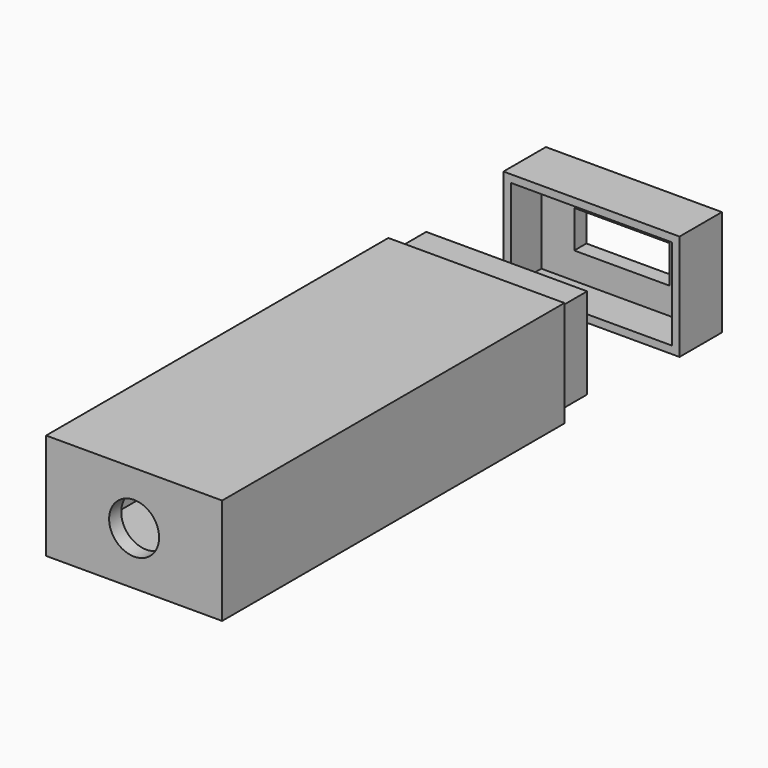
from build123d import *

# Parameters (mm, degrees)
PAD003_DEPTH      = 7
PAD003_DEPTH_BACK = 7
SKETCH004_W       = 7
SKETCH004_H       = 1
PAD004_DEPTH      = 23.250027
SKETCH005_W       = 12.55
SKETCH005_H       = 4.95
POCKET_DEPTH      = 7.001
SKETCH007_W       = 23.25
SKETCH007_H       = 14
PAD005_DEPTH      = 61.5
THICKNESS_T       = -2
SKETCH008_W       = 23.25
SKETCH008_H       = 14
SKETCH008_W_2     = 21.25
SKETCH008_H_2     = 12
POCKET001_DEPTH   = 5
SKETCH009_R       = 3.3
POCKET002_DEPTH   = 61.501


with BuildPart() as usb:
    # Sketch003 → Pad003 (new body, two sides)
    with BuildSketch(Plane.XY) as pad003_sk:
        Polygon((11.625027, 0), (-11.625, 0), (-11.625, -7), (-10.625, -7), (-10.625, -2), (10.625, -2), (10.625027, -7), (11.625027, -7), align=None)
    extrude(amount=PAD003_DEPTH)
    extrude(pad003_sk.sketch, amount=-PAD003_DEPTH_BACK)

    # Sketch004 (on Face4 of Pad003) → Pad004 (join)
    with BuildSketch(Plane.YZ.offset(11.625027)):
        with Locations((-3.5, 6.5)):
            Rectangle(SKETCH004_W, SKETCH004_H)
        with Locations((-3.5, -6.5)):
            Rectangle(SKETCH004_W, SKETCH004_H)
    extrude(amount=-PAD004_DEPTH)

    # Sketch005 (on Face9 of Pad004) → Pocket (cut, through all)
    with BuildSketch(Plane(origin=(0, 0, 0), x_dir=(-1, 0, 0), z_dir=(0, 1, 0))):
        Rectangle(SKETCH005_W, SKETCH005_H)
    extrude(amount=-POCKET_DEPTH, mode=Mode.SUBTRACT)


with BuildPart() as usb_1:
    # Body002 placement: moved
    add(usb.part.moved(Location((0, 19, 0))))


with BuildPart() as body004:
    # Sketch007 → Pad005 (new body)
    with BuildSketch(Plane.XZ.offset(2)):
        Rectangle(SKETCH007_W, SKETCH007_H)
    extrude(amount=PAD005_DEPTH)

    # Thickness
    thickness_openings = [body004.faces().sort_by_distance(p)[0] for p in [
        (0, -2, 0),
    ]]
    offset(amount=THICKNESS_T, openings=thickness_openings, kind=Kind.INTERSECTION)

    # Sketch008 (on Face6 of Thickness) → Pocket001 (cut)
    with BuildSketch(Plane(origin=(0, -2, 0), x_dir=(-1, 0, 0), z_dir=(0, 1, 0))):
        Rectangle(SKETCH008_W, SKETCH008_H)
        Rectangle(SKETCH008_W_2, SKETCH008_H_2, mode=Mode.SUBTRACT)
    extrude(amount=-POCKET001_DEPTH, mode=Mode.SUBTRACT)

    # Sketch009 (on Face4 of Pocket001) → Pocket002 (cut, through all)
    with BuildSketch(Plane.XZ.offset(63.5)):
        Circle(SKETCH009_R)
    extrude(amount=-POCKET002_DEPTH, mode=Mode.SUBTRACT)


solid = Compound([usb_1.part, body004.part])
